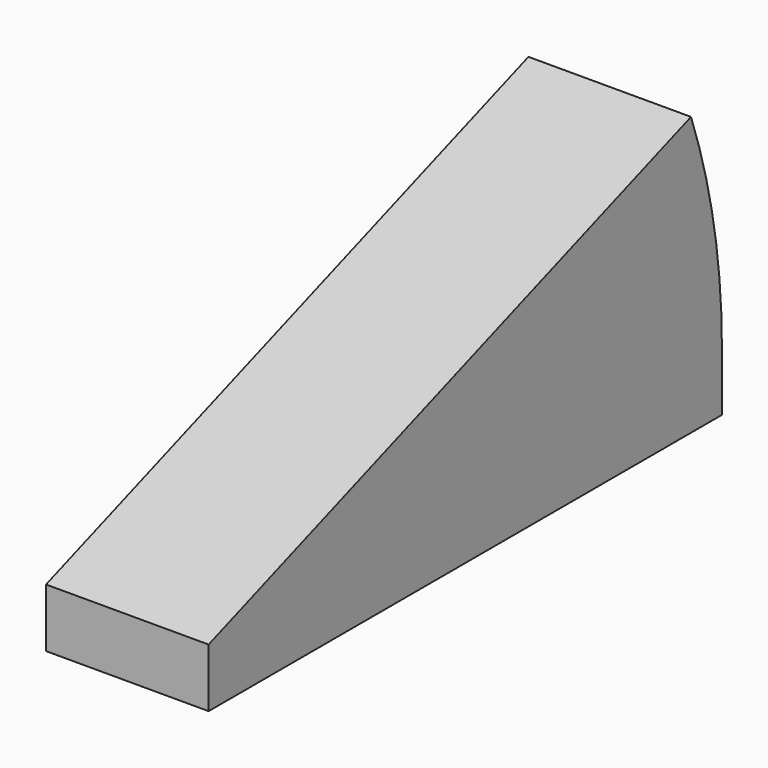
from build123d import *

# Parameters (mm, degrees)
F0_W     = 33.782
F0_H     = 133.35
F1_ANGLE = 20
F2_DEPTH = 12.192


with BuildPart() as f1:
    # F0 (on Top) → F1 (revolve)
    with BuildSketch(Plane.XY):
        with Locations((-25.47081, 37.101181)):
            Rectangle(F0_W, F0_H)
    revolve(axis=Axis((-25.47081, -29.573819, 0), (1, 0, 0)), revolution_arc=F1_ANGLE)

    # F0 (on Top) → F2 (join)
    with BuildSketch(Plane.XY):
        with Locations((-25.47081, 37.101181)):
            Rectangle(F0_W, F0_H)
    extrude(amount=-F2_DEPTH)


solid = f1.part
